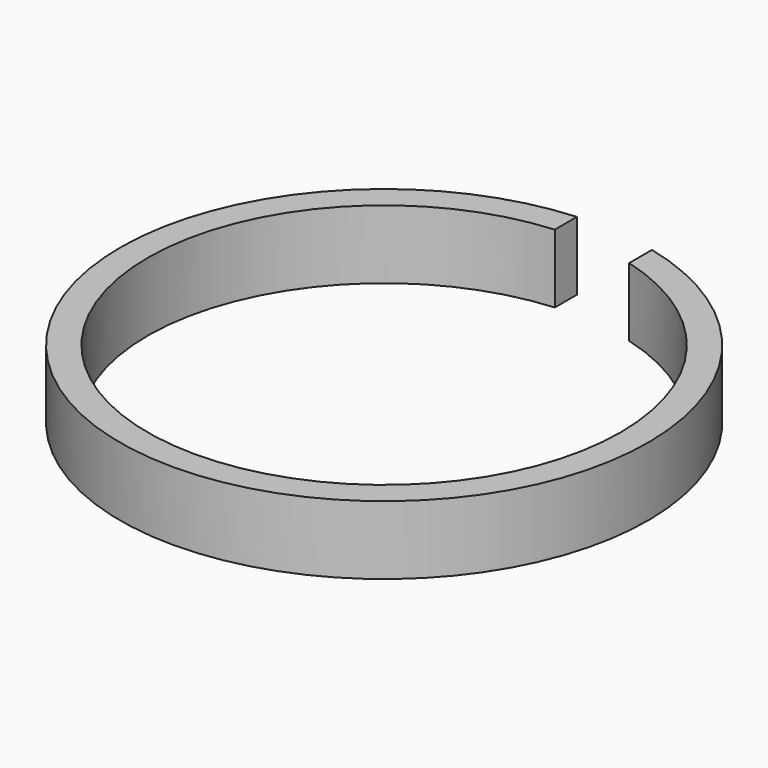
from build123d import *

# Parameters (mm, degrees)
F0_W     = 6.333765
F0_H     = 15.734342
F2_W     = 18.513567
F2_H     = 25.330746
F3_DEPTH = 177.8


with BuildPart() as f1:
    # F0 (on Front) → F1 (revolve)
    with BuildSketch(Plane.XZ):
        with Locations((-24.841515, 2.676804)):
            Rectangle(F0_W, F0_H)
    revolve(axis=Axis((32.579564, 0, 2.428505), (0, 0, -1)))

    # F2 (on Front) → F3 (cut)
    with BuildSketch(Plane.XZ):
        with Locations((37.721355, 7.407776)):
            Rectangle(F2_W, F2_H)
    extrude(amount=-F3_DEPTH, mode=Mode.SUBTRACT)


solid = f1.part
